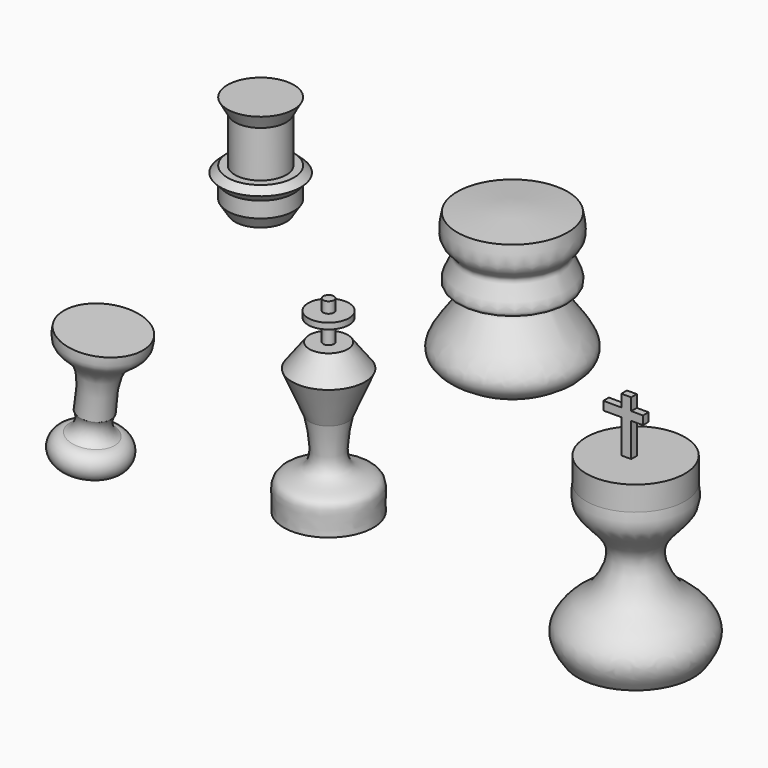
from build123d import *

# Parameters (mm, degrees)
F4_W     = 4.3244436383
F4_H     = 5.2843801677
F4_W_2   = 5.1217377186
F4_H_2   = 3.7396363914
F5_DEPTH = 3.048


with BuildPart() as f1:
    # F0 (on Front) → F1 (revolve)
    with BuildSketch(Plane.XZ):
        with BuildLine():
            add(Edge.make_bspline(
                [(-36.2352281809, -64.909517765), (-36.200462587, -62.544735156), (-36.1339505537, -58.0205351714), (-36.6534777552, -50.3458767861), (-20.6181815712, -49.3818371495), (-23.4699841185, -35.7062401885), (-25.0937230885, -27.9197264463)],
                knots=[0, 0, 0, 0, 0.2086639096, 0.3992067825, 0.657924648, 1, 1, 1, 1], degree=3))
            Line((-36.2352281809, -64.909517765), (-16.7176704854, -66.6838484392))
            Line((-16.7176704854, -66.6838484392), (-16.7176704854, 0))
            Line((-16.7176704854, 0), (-19.0598834306, 0))
            Line((-19.0598834306, 0), (-25.0937230885, 0))
            Line((-25.0937230885, 0), (-32.6699465513, -10.0933155045))
            Line((-32.6699465513, -10.0933155045), (-25.0937230885, -27.9197264463))
        make_face()
        Polygon((-19.0598834306, 0), (-16.7176704854, 0), (-16.7176704854, 16.9273670763), (-19.0598834306, 16.8336797506), (-19.0598834306, 12.0555646718), (-25.6180800498, 12.0555646718), (-25.6180800498, 9.4322860241), (-19.0598834306, 9.4322860241), align=None)
    revolve(axis=Axis((-16.7176704854, 0, -33.3419242196), (0, 0, -1)))


with BuildPart() as f3:
    # F2 (on Front) → F3 (revolve)
    with BuildSketch(Plane.XZ):
        with BuildLine():
            add(Edge.make_bspline(
                [(91.9703692198, -77.1206617355), (90.8647820062, -75.5670082422), (88.5196264752, -72.27142103), (86.5315291755, -64.3760464193), (94.6906849675, -55.0523577555), (101.6943132046, -52.0848477328), (112.1091355523, -33.1395369819), (94.0485417175, -21.3623482749), (95.1460411659, -13.8151304004), (95.6114754081, -10.6144603342)],
                knots=[0, 0, 0, 0, 0.1061774346, 0.2252220314, 0.3711688203, 0.4969657471, 0.67888931, 0.8638214253, 1, 1, 1, 1], degree=3))
            Line((91.9703692198, -77.1206617355), (117.1327754855, -73.6608356237))
            Line((117.1327754855, -73.6608356237), (117.1327754855, 0))
            Line((117.1327754855, 0), (95.6114754081, 0))
            Line((95.6114754081, 0), (95.6114754081, -10.6144603342))
        make_face()
    revolve(axis=Axis((117.1327754855, 0, -36.8304178119), (0, 0, -1)))

    # F4 (on Front) → F5 (join)
    with BuildSketch(Plane.XZ):
        Polygon((113.3453398943, 14.6857835352), (113.3453398943, 0), (117.6697835326, 0), (117.6697835326, 14.6857835352), (117.6697835326, 18.4254199266), (113.3453398943, 18.4254199266), (105.4909750819, 18.4254199266), (105.4909750819, 14.6857835352), align=None)
        with Locations((115.5075617135, 21.0676100105)):
            Rectangle(F4_W, F4_H)
        with Locations((120.2306523919, 16.5556017309)):
            Rectangle(F4_W_2, F4_H_2)
    extrude(amount=F5_DEPTH)


with BuildPart() as f7:
    # F6 (on Front) → F7 (revolve)
    with BuildSketch(Plane.XZ):
        with BuildLine():
            ThreePointArc((-125.820979476, -58.8496923447), (-125.8649990442, -64.0563195696), (-129.5618265867, -67.7229762077))
            ThreePointArc((-129.5618265867, -67.7229762077), (-135.1965225148, -71.344841352), (-133.7013989687, -77.8741836548))
            Line((-133.7013989687, -77.8741836548), (-121.0385747732, -79.8851681034))
            Line((-121.0385747732, -79.8851681034), (-114.9031072855, -27.4910710225))
            Line((-114.9031072855, -27.4910710225), (-132.1668751119, -25.4694446921))
            add(Edge.make_bspline(
                [(-125.820979476, -58.8496923447), (-124.7080126471, -51.7557707009), (-122.7653926899, -39.3737361229), (-133.6321463919, -32.2070082145), (-132.606534195, -27.4910710225), (-132.1668751119, -25.4694446921)],
                knots=[0, 0, 0, 0, 0.4338823877, 0.757316897, 1, 1, 1, 1], degree=3))
        make_face()
    revolve(axis=Axis((-117.9708410293, 0, -53.6881195629), (-0.1163075221, 0, -0.9932132502)))


with BuildPart() as f9:
    # F8 (on Front) → F9 (revolve)
    with BuildSketch(Plane.XZ):
        Polygon((-46.3423579931, 84.34984833), (-46.3423579931, 40.1102825999), (-35.1459234953, 40.1102825999), (-31.8689160049, 45.2988743782), (-31.8689160049, 52.1259717643), (-28.8649946451, 55.4029792547), (-31.8689160049, 58.1565718425), (-35.1459234953, 58.1565718425), (-35.1459234953, 78.3420056105), (-31.8689160049, 84.34984833), align=None)
    revolve(axis=Axis((-46.3423579931, 0, 62.230065465), (0, 0, -1)))


with BuildPart() as f11:
    # F10 (on Front) → F11 (revolve)
    with BuildSketch(Plane.XZ):
        with BuildLine():
            add(Edge.make_bspline(
                [(87.5227600336, 75.9531259537), (88.2920608984, 72.1325815846), (89.6463299673, 65.4069358691), (82.6466429488, 61.2612066685), (85.9619862447, 56.1213601719), (89.871314308, 46.4136863151), (73.6437048811, 48.7030791841), (101.5286754614, 23.682715629), (88.0753734277, 16.8158263277), (81.990018487, 13.7097146362)],
                knots=[0, 0, 0, 0, 0.1442409993, 0.2539203226, 0.3597496841, 0.4836144132, 0.5983250364, 0.818309682, 1, 1, 1, 1], degree=3))
            Line((87.5227600336, 75.9531259537), (63.4553134441, 77.8895840049))
            Line((63.4553134441, 77.8895840049), (63.4553134441, 13.7097146362))
            Line((63.4553134441, 13.7097146362), (81.990018487, 13.7097146362))
        make_face()
    revolve(axis=Axis((63.4553134441, 0, 45.7996493205), (0, 0, 1)))


solid = Compound([f1.part, f3.part, f7.part, f9.part, f11.part])
